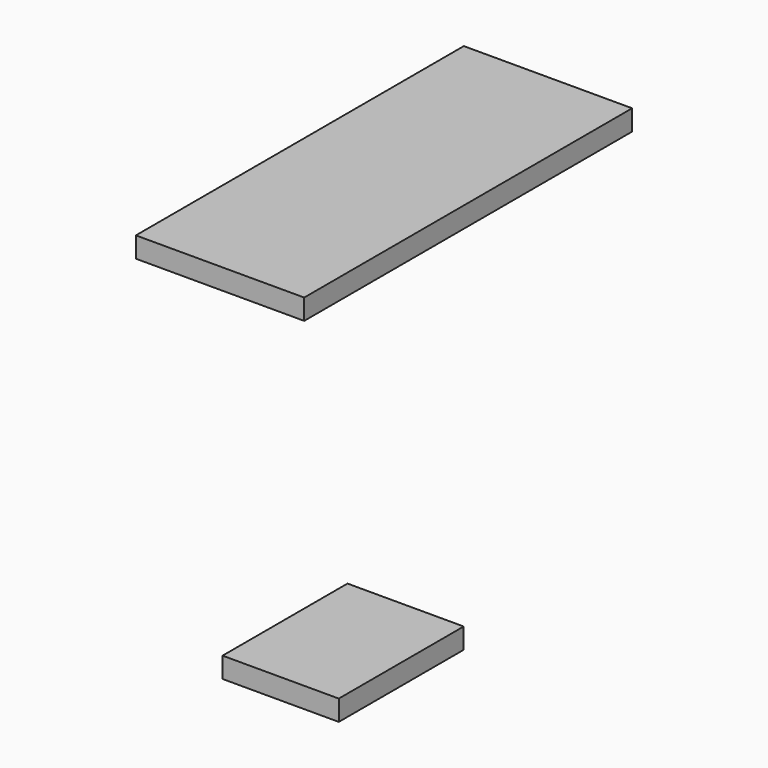
from build123d import *

# Parameters (mm, degrees)
F0_W     = 207.960658
F0_H     = 506.466373
F0_W_2   = 143.583744
F0_H_2   = 192.902803
F1_DEPTH = 25.4


with BuildPart() as f1:
    # F0 (on Top) → F1 (new body)
    with BuildSketch(Plane.XY):
        with Locations((-65.712605, -65.506644)):
            Rectangle(F0_W, F0_H)
        with Locations((515.954867, -855.700582)):
            Rectangle(F0_W_2, F0_H_2)
    extrude(amount=F1_DEPTH)


solid = f1.part
